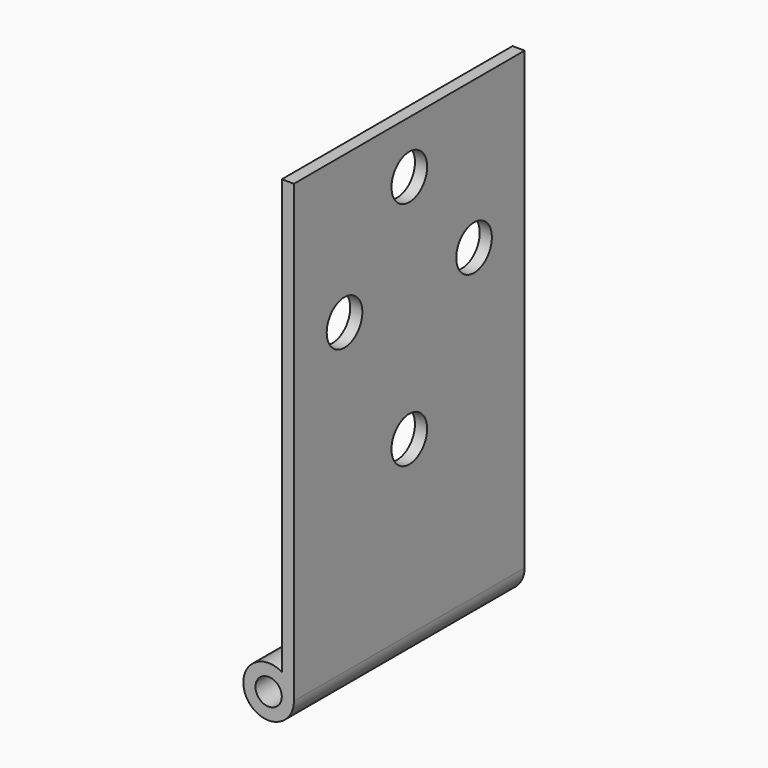
from build123d import *

# Parameters (mm, degrees)
F1_DEPTH = 28.5
F2_D     = 2.6
F4_D     = 4.4


with BuildPart() as f1:
    # F0 (on Front) → F1 (new body)
    with BuildSketch(Plane.XZ):
        with BuildLine():
            ThreePointArc((1.3, 2.1354156504), (2.1794494718, 1.2247448714), (2.5, 0))
            Line((2.5, 0), (2.5, 45))
            Line((2.5, 45), (1.3, 45))
            Line((1.3, 45), (1.3, 2.1354156504))
        make_face()
        with BuildLine():
            ThreePointArc((1.3, 2.1354156504), (-2.1794494718, -1.2247448714), (2.5, 0))
            ThreePointArc((2.5, 0), (2.1794494718, 1.2247448714), (1.3, 2.1354156504))
        make_face()
    extrude(amount=-F1_DEPTH)

    # F2 (through all)
    with Locations(Plane.XZ):
        with Locations((0, 0)):
            Hole(F2_D / 2)

    # F4 (through all)
    with Locations(Plane.YZ.offset(2.5)):
        with Locations((14.25, 39.8), (22.25, 30.4), (6.25, 30.4), (14.25, 17)):
            Hole(F4_D / 2)


solid = f1.part
